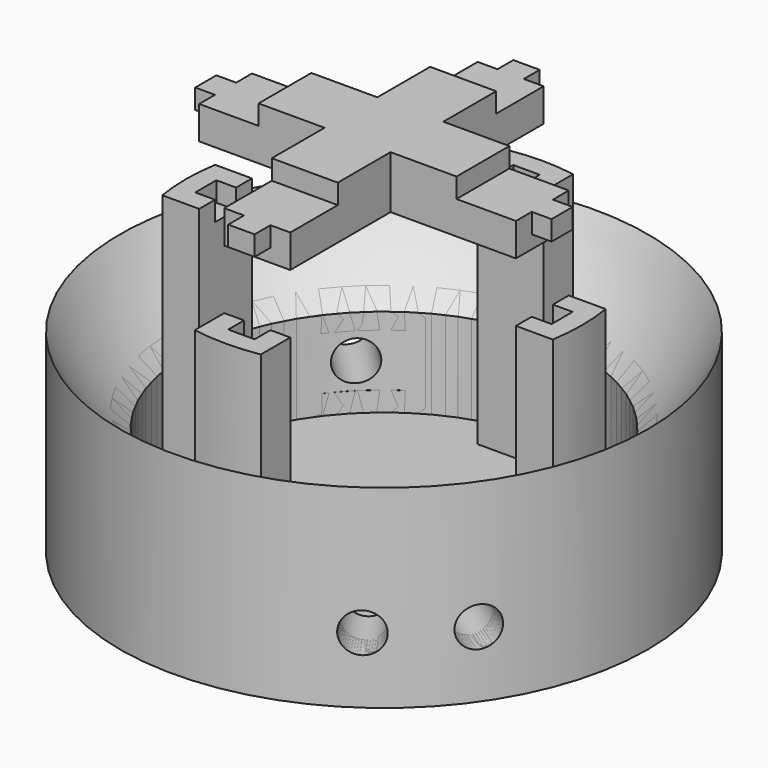
from build123d import *

# Parameters (mm, degrees)
CYLINDER003_R               = 3
CYLINDER003_DEPTH           = 12
CYLINDER003_PITCH_ANGLE     = 90
CYLINDER003_PLACEMENT_ANGLE = -35
CYLINDER002_R               = 3
CYLINDER002_DEPTH           = 12
CYLINDER002_PITCH_ANGLE     = 90
CYLINDER002_PLACEMENT_ANGLE = -55
CYLINDER004_R               = 3
CYLINDER004_DEPTH           = 12
CYLINDER004_PITCH_ANGLE     = 90
CYLINDER004_PLACEMENT_ANGLE = 135
CYLINDER001_R               = 30
CYLINDER001_DEPTH           = 30
CYLINDER_R                  = 40
CYLINDER_DEPTH              = 30
BOX007_W                    = 10
BOX007_H                    = 4
BOX007_DEPTH                = 10
BOX006_W                    = 6
BOX006_H                    = 10
BOX006_DEPTH                = 45
CUT008_PLACEMENT_ANGLE      = 180
CYLINDER005_R               = 30
CYLINDER005_DEPTH           = 40
BOX003_W                    = 10
BOX003_H                    = 4
BOX003_DEPTH                = 10
BOX002_W                    = 6
BOX002_H                    = 10
BOX002_DEPTH                = 45
CUT006_PLACEMENT_ANGLE      = 90
BOX001_W                    = 10
BOX001_H                    = 4
BOX001_DEPTH                = 10
BOX_W                       = 6
BOX_H                       = 10
BOX_DEPTH                   = 45
BOX005_W                    = 10
BOX005_H                    = 4
BOX005_DEPTH                = 10
BOX004_W                    = 6
BOX004_H                    = 10
BOX004_DEPTH                = 45
CUT007_PLACEMENT_ANGLE      = -90
CYLINDER006_R               = 40
CYLINDER006_DEPTH           = 20
BOX010_W                    = 3
BOX010_H                    = 4
BOX010_DEPTH                = 3
BOX011_W                    = 3
BOX011_H                    = 4
BOX011_DEPTH                = 3
BOX015_W                    = 30
BOX015_H                    = 10
BOX015_DEPTH                = 10
BOX009_W                    = 48
BOX009_H                    = 10
BOX009_DEPTH                = 10
BOX013_W                    = 4
BOX013_H                    = 3
BOX013_DEPTH                = 3
BOX012_W                    = 10
BOX012_H                    = 48
BOX012_DEPTH                = 10
BOX014_W                    = 4
BOX014_H                    = 3
BOX014_DEPTH                = 3
BOX016_W                    = 10
BOX016_H                    = 30
BOX016_DEPTH                = 10
CYLINDER007_W               = 36
CYLINDER007_H               = 14
CYLINDER007_ANGLE           = 60
CYLINDER007_PLACEMENT_ANGLE = 75
BOX008_W                    = 12
BOX008_H                    = 12
BOX008_DEPTH                = 8
BOX008_PLACEMENT_ANGLE      = -45


with BuildPart() as switch2:
    # Cylinder003 → Cylinder003 (new body)
    with BuildSketch(Plane.XY):
        Circle(CYLINDER003_R)
    extrude(amount=CYLINDER003_DEPTH)


with BuildPart() as switch2_1:
    # Cylinder003 pitch: moved
    add(switch2.part.rotate(Axis((0, 0, 0), (0, 1, 0)), CYLINDER003_PITCH_ANGLE))


with BuildPart() as switch2_2:
    # Cylinder003 placement: moved
    add(switch2_1.part.moved(Location((23.755409, -16.633717, 10))).rotate(Axis((23.755409, -16.633717, 10), (0, 0, 1)), CYLINDER003_PLACEMENT_ANGLE))


with BuildPart() as switch1:
    # Cylinder002 → Cylinder002 (new body)
    with BuildSketch(Plane.XY):
        Circle(CYLINDER002_R)
    extrude(amount=CYLINDER002_DEPTH)


with BuildPart() as switch1_1:
    # Cylinder002 pitch: moved
    add(switch1.part.rotate(Axis((0, 0, 0), (0, 1, 0)), CYLINDER002_PITCH_ANGLE))


with BuildPart() as switch1_2:
    # Cylinder002 placement: moved
    add(switch1_1.part.moved(Location((16.633717, -23.755409, 10))).rotate(Axis((16.633717, -23.755409, 10), (0, 0, 1)), CYLINDER002_PLACEMENT_ANGLE))


with BuildPart() as plug:
    # Cylinder004 → Cylinder004 (new body)
    with BuildSketch(Plane.XY):
        Circle(CYLINDER004_R)
    extrude(amount=CYLINDER004_DEPTH)


with BuildPart() as plug_1:
    # Cylinder004 pitch: moved
    add(plug.part.rotate(Axis((0, 0, 0), (0, 1, 0)), CYLINDER004_PITCH_ANGLE))


with BuildPart() as plug_2:
    # Cylinder004 placement: moved
    add(plug_1.part.moved(Location((-20.506097, 20.506097, 10))).rotate(Axis((-20.506097, 20.506097, 10), (0, 0, 1)), CYLINDER004_PLACEMENT_ANGLE))


with BuildPart() as sphere:
    # Sphere → Sphere (revolve)
    with BuildSketch(Plane(origin=(0, 0, 50), x_dir=(1, 0, 0), z_dir=(0, -1, 0))):
        with BuildLine():
            ThreePointArc((0, -45), (45, 0), (0, 45))
            Line((0, 45), (0, -45))
        make_face()
    revolve(axis=Axis((0, 0, 50), (0, 0, 1)))


with BuildPart() as cylinder001:
    # Cylinder001 → Cylinder001 (new body)
    with BuildSketch(Plane.XY.offset(3)):
        Circle(CYLINDER001_R)
    extrude(amount=CYLINDER001_DEPTH)


with BuildPart() as cut001:
    # Cylinder → Cylinder (new body)
    with BuildSketch(Plane.XY):
        Circle(CYLINDER_R)
    extrude(amount=CYLINDER_DEPTH)

    # Cut: cut Cylinder001
    add(cylinder001.part, mode=Mode.SUBTRACT)

    # Cut001: cut Sphere
    add(sphere.part, mode=Mode.SUBTRACT)


with BuildPart() as base_round:
    # Cut002 base: copy of Cut001
    add(cut001.part)

    # Cut002: cut plug
    add(plug_2.part, mode=Mode.SUBTRACT)

    # Cut003: cut switch1
    add(switch1_2.part, mode=Mode.SUBTRACT)

    # Cut004: cut switch2
    add(switch2_2.part, mode=Mode.SUBTRACT)


with BuildPart() as cube007:
    # Box007 → Box007 (new body)
    with BuildSketch(Plane(origin=(3, 3, 42), x_dir=(1, 0, 0), z_dir=(0, 0, 1))):
        with Locations((5, 2)):
            Rectangle(BOX007_W, BOX007_H)
    extrude(amount=BOX007_DEPTH)


with BuildPart() as cut008:
    # Box006 → Box006 (new body)
    with BuildSketch(Plane.XY):
        with Locations((3, 5)):
            Rectangle(BOX006_W, BOX006_H)
    extrude(amount=BOX006_DEPTH)

    # Cut008: cut Cube007
    add(cube007.part, mode=Mode.SUBTRACT)


with BuildPart() as cut008_1:
    # Cut008 placement: moved
    add(cut008.part.moved(Location((30, 5, -5))).rotate(Axis((30, 5, -5), (0, 0, 1)), CUT008_PLACEMENT_ANGLE))


with BuildPart() as cylinder002:
    # Cylinder005 → Cylinder005 (new body)
    with BuildSketch(Plane.XY):
        Circle(CYLINDER005_R)
    extrude(amount=CYLINDER005_DEPTH)


with BuildPart() as snap1:
    # Common base: copy of Cylinder002
    add(cylinder002.part)

    # Common: intersect Cut008
    add(cut008_1.part, mode=Mode.INTERSECT)


with BuildPart() as cube003:
    # Box003 → Box003 (new body)
    with BuildSketch(Plane(origin=(3, 3, 42), x_dir=(1, 0, 0), z_dir=(0, 0, 1))):
        with Locations((5, 2)):
            Rectangle(BOX003_W, BOX003_H)
    extrude(amount=BOX003_DEPTH)


with BuildPart() as snap2:
    # Box002 → Box002 (new body)
    with BuildSketch(Plane.XY):
        with Locations((3, 5)):
            Rectangle(BOX002_W, BOX002_H)
    extrude(amount=BOX002_DEPTH)

    # Cut006: cut Cube003
    add(cube003.part, mode=Mode.SUBTRACT)


with BuildPart() as snap2_1:
    # Cut006 placement: moved
    add(snap2.part.moved(Location((5, -30, -5))).rotate(Axis((5, -30, -5), (0, 0, 1)), CUT006_PLACEMENT_ANGLE))

    # Common001: intersect Cylinder002
    add(cylinder002.part, mode=Mode.INTERSECT)


with BuildPart() as cube001:
    # Box001 → Box001 (new body)
    with BuildSketch(Plane(origin=(3, 3, 42), x_dir=(1, 0, 0), z_dir=(0, 0, 1))):
        with Locations((5, 2)):
            Rectangle(BOX001_W, BOX001_H)
    extrude(amount=BOX001_DEPTH)


with BuildPart() as snap3:
    # Box → Box (new body)
    with BuildSketch(Plane.XY):
        with Locations((3, 5)):
            Rectangle(BOX_W, BOX_H)
    extrude(amount=BOX_DEPTH)

    # Cut005: cut Cube001
    add(cube001.part, mode=Mode.SUBTRACT)


with BuildPart() as snap3_1:
    # Cut005 placement: moved
    add(snap3.part.moved(Location((-30, -5, -5))))

    # Common002: intersect Cylinder002
    add(cylinder002.part, mode=Mode.INTERSECT)


with BuildPart() as cube005:
    # Box005 → Box005 (new body)
    with BuildSketch(Plane(origin=(3, 3, 42), x_dir=(1, 0, 0), z_dir=(0, 0, 1))):
        with Locations((5, 2)):
            Rectangle(BOX005_W, BOX005_H)
    extrude(amount=BOX005_DEPTH)


with BuildPart() as snap4:
    # Box004 → Box004 (new body)
    with BuildSketch(Plane.XY):
        with Locations((3, 5)):
            Rectangle(BOX004_W, BOX004_H)
    extrude(amount=BOX004_DEPTH)

    # Cut007: cut Cube005
    add(cube005.part, mode=Mode.SUBTRACT)


with BuildPart() as snap4_1:
    # Cut007 placement: moved
    add(snap4.part.moved(Location((-5, 30, -5))).rotate(Axis((-5, 30, -5), (0, 0, 1)), CUT007_PLACEMENT_ANGLE))

    # Common003: intersect Cylinder002
    add(cylinder002.part, mode=Mode.INTERSECT)


with BuildPart() as cylinder003:
    # Cylinder006 → Cylinder006 (new body)
    with BuildSketch(Plane.XY.offset(29)):
        Circle(CYLINDER006_R)
    extrude(amount=CYLINDER006_DEPTH)


with BuildPart() as cube010:
    # Box010 → Box010 (new body)
    with BuildSketch(Plane(origin=(-27, -2, 37), x_dir=(1, 0, 0), z_dir=(0, 0, 1))):
        with Locations((1.5, 2)):
            Rectangle(BOX010_W, BOX010_H)
    extrude(amount=BOX010_DEPTH)


with BuildPart() as cube011:
    # Box011 → Box011 (new body)
    with BuildSketch(Plane(origin=(24, -2, 37), x_dir=(1, 0, 0), z_dir=(0, 0, 1))):
        with Locations((1.5, 2)):
            Rectangle(BOX011_W, BOX011_H)
    extrude(amount=BOX011_DEPTH)


with BuildPart() as cube015:
    # Box015 → Box015 (new body)
    with BuildSketch(Plane(origin=(-15, -5, 33), x_dir=(1, 0, 0), z_dir=(0, 0, 1))):
        with Locations((15, 5)):
            Rectangle(BOX015_W, BOX015_H)
    extrude(amount=BOX015_DEPTH)


with BuildPart() as fusion:
    # Box009 → Box009 (new body)
    with BuildSketch(Plane(origin=(-24, -5, 30), x_dir=(1, 0, 0), z_dir=(0, 0, 1))):
        with Locations((24, 5)):
            Rectangle(BOX009_W, BOX009_H)
    extrude(amount=BOX009_DEPTH)

    # Fusion: union Cube010, Cube011, Cube015
    add(cube010.part)
    add(cube011.part)
    add(cube015.part)


with BuildPart() as cube013:
    # Box013 → Box013 (new body)
    with BuildSketch(Plane(origin=(-2, 24, 37), x_dir=(1, 0, 0), z_dir=(0, 0, 1))):
        with Locations((2, 1.5)):
            Rectangle(BOX013_W, BOX013_H)
    extrude(amount=BOX013_DEPTH)


with BuildPart() as cube012:
    # Box012 → Box012 (new body)
    with BuildSketch(Plane(origin=(-5, -24, 30), x_dir=(1, 0, 0), z_dir=(0, 0, 1))):
        with Locations((5, 24)):
            Rectangle(BOX012_W, BOX012_H)
    extrude(amount=BOX012_DEPTH)


with BuildPart() as cube014:
    # Box014 → Box014 (new body)
    with BuildSketch(Plane(origin=(-2, -27, 37), x_dir=(1, 0, 0), z_dir=(0, 0, 1))):
        with Locations((2, 1.5)):
            Rectangle(BOX014_W, BOX014_H)
    extrude(amount=BOX014_DEPTH)


with BuildPart() as led:
    # Box016 → Box016 (new body)
    with BuildSketch(Plane(origin=(-5, -15, 33), x_dir=(1, 0, 0), z_dir=(0, 0, 1))):
        with Locations((5, 15)):
            Rectangle(BOX016_W, BOX016_H)
    extrude(amount=BOX016_DEPTH)

    # Fusion001: union Cube013, Cube012, Cube014
    add(cube013.part)
    add(cube012.part)
    add(cube014.part)

    # Fusion002: union Fusion
    add(fusion.part)


with BuildPart() as led_1:
    # Fusion002 placement: moved
    add(led.part.moved(Location((0, 0, 14))))

    # Cut012: cut Cylinder003
    add(cylinder003.part, mode=Mode.SUBTRACT)


with BuildPart() as cylinder004:
    # Cylinder007 → Cylinder007 (revolve)
    with BuildSketch(Plane.XZ):
        with Locations((18, 7)):
            Rectangle(CYLINDER007_W, CYLINDER007_H)
    revolve(axis=Axis((0, 0, 0), (0, 0, 1)), revolution_arc=CYLINDER007_ANGLE)


with BuildPart() as cylinder004_1:
    # Cylinder007 placement: moved
    add(cylinder004.part.moved(Location((0, 0, 3))).rotate(Axis((0, 0, 3), (0, 0, -1)), CYLINDER007_PLACEMENT_ANGLE))


with BuildPart() as cube008:
    # Box008 → Box008 (new body)
    with BuildSketch(Plane.XY):
        with Locations((6, 6)):
            Rectangle(BOX008_W, BOX008_H)
    extrude(amount=BOX008_DEPTH)


with BuildPart() as cube008_1:
    # Box008 placement: moved
    add(cube008.part.moved(Location((-33.234019, 24.748737, 6))).rotate(Axis((-33.234019, 24.748737, 6), (0, 0, 1)), BOX008_PLACEMENT_ANGLE))


with BuildPart() as cut013:
    # Cut009 base: copy of Cut001
    add(cut001.part)

    # Cut009: cut switch1
    add(switch1_2.part, mode=Mode.SUBTRACT)

    # Cut010: cut switch2
    add(switch2_2.part, mode=Mode.SUBTRACT)

    # Cut011: cut Cube008
    add(cube008_1.part, mode=Mode.SUBTRACT)

    # Cut013: cut Cylinder004
    add(cylinder004_1.part, mode=Mode.SUBTRACT)


solid = Compound([base_round.part, snap1.part, snap2_1.part, snap3_1.part, snap4_1.part, led_1.part, cut013.part])
